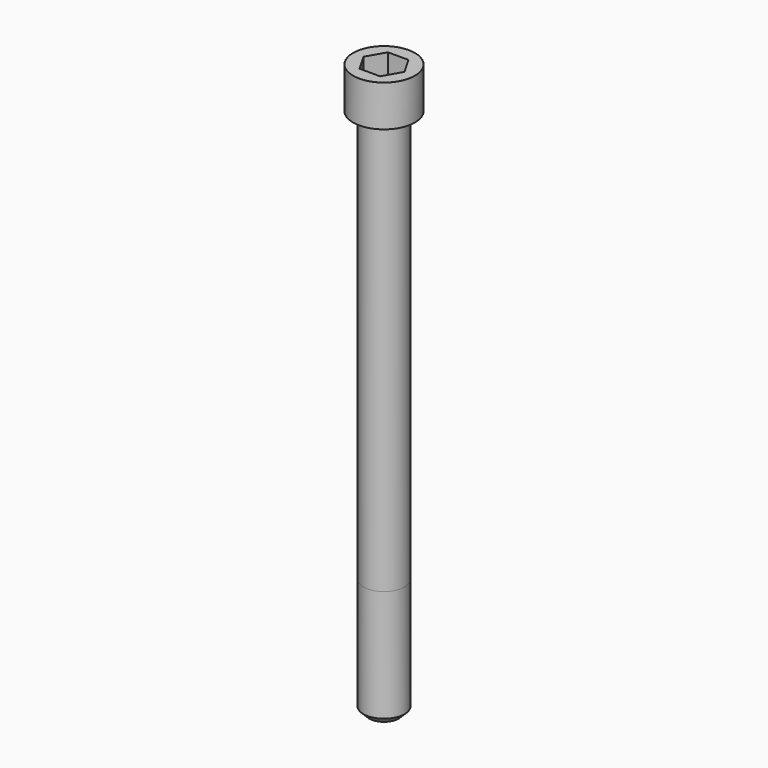
from build123d import *

# Parameters (mm, degrees)
POCKET_DEPTH = 12.07


with BuildPart() as part:
    # Sketch → Revolve (revolve)
    with BuildSketch(Plane.YZ):
        with BuildLine():
            Line((6.999, 0), (10.5, 0))
            Line((10.5, 0), (10.5, 13.97229))
            ThreePointArc((10.5, 13.97229), (10.491884, 13.991884), (10.47229, 14))
            Line((10.47229, 14), (0, 14))
            Line((0, -180), (0, 14))
            Line((5, -180), (0, -180))
            Line((7, -178), (5, -180))
            Line((7, -140), (7, -178))
            Line((6.999, 0), (7, -140))
        make_face()
    revolve(axis=Axis((0, 0, 0), (0, 0, 1)))

    # Sketch001 → Pocket (cut)
    with BuildSketch(Plane.XY.offset(14)):
        Polygon((6.968618, 0), (3.484309, 6.035), (-3.484309, 6.035), (-6.968618, 0), (-3.484309, -6.035), (3.484309, -6.035), align=None)
    extrude(amount=-POCKET_DEPTH, mode=Mode.SUBTRACT)


solid = part.part
